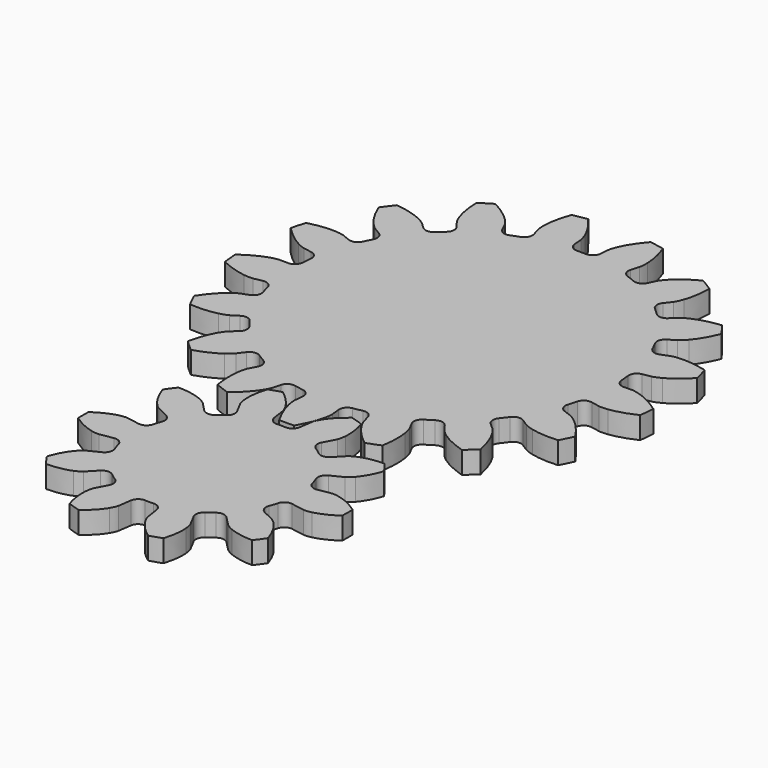
from build123d import *

# Parameters (mm, degrees)
PAD_DEPTH               = 5
PAD001_DEPTH            = 5
BODY001_PLACEMENT_ANGLE = 15.9


with BuildPart() as obj1:
    # InvoluteGear → Pad (new body)
    with BuildSketch(Plane.XY):
        with BuildLine():
            Line((20.236579, -3.515094), (23.223279, -4.029475))
            add(Edge.make_bspline(
                [(23.223279, -4.029475), (23.42369, -4.04779), (24.024695, -4.070874), (25.040076, -3.836996)],
                knots=[0, 0, 0, 0, 1, 1, 1, 1], degree=3))
            add(Edge.make_bspline(
                [(25.040076, -3.836996), (26.245626, -3.550442), (27.953672, -2.902976), (29.971864, -1.46522)],
                knots=[0, 0, 0, 0, 1, 1, 1, 1], degree=3))
            ThreePointArc((29.971864, -1.46522), (30.007666, 0), (29.971864, 1.46522))
            add(Edge.make_bspline(
                [(29.971864, 1.46522), (27.953672, 2.902976), (26.245626, 3.550442), (25.040076, 3.836996)],
                knots=[0, 0, 0, 0, 1, 1, 1, 1], degree=3))
            add(Edge.make_bspline(
                [(25.040076, 3.836996), (24.024695, 4.070874), (23.42369, 4.04779), (23.223279, 4.029475)],
                knots=[0, 0, 0, 0, 1, 1, 1, 1], degree=3))
            Line((23.223279, 4.029475), (20.236579, 3.515094))
            ThreePointArc((20.236579, 3.515094), (18.910165, 3.779849), (18.107004, 4.86815))
            ThreePointArc((18.107004, 4.86815), (17.83231, 5.794069), (17.510301, 6.704614))
            ThreePointArc((17.510301, 6.704614), (17.520385, 8.057154), (18.437856, 9.050992))
            Line((18.437856, 9.050992), (21.156493, 10.390387))
            add(Edge.make_bspline(
                [(21.156493, 10.390387), (21.329394, 10.493369), (21.829186, 10.827955), (22.513177, 11.613993)],
                knots=[0, 0, 0, 0, 1, 1, 1, 1], degree=3))
            add(Edge.make_bspline(
                [(22.513177, 11.613993), (23.320055, 12.554424), (24.321322, 14.082199), (25.108982, 16.431632)],
                knots=[0, 0, 0, 0, 1, 1, 1, 1], degree=3))
            ThreePointArc((25.108982, 16.431632), (24.276712, 17.638064), (23.386513, 18.802407))
            add(Edge.make_bspline(
                [(23.386513, 18.802407), (20.908669, 18.779313), (19.14626, 18.29916), (18.002518, 17.822382)],
                knots=[0, 0, 0, 0, 1, 1, 1, 1], degree=3))
            add(Edge.make_bspline(
                [(18.002518, 17.822382), (17.043587, 17.414767), (16.570932, 17.04283), (16.419561, 16.910215)],
                knots=[0, 0, 0, 0, 1, 1, 1, 1], degree=3))
            Line((16.419561, 16.910215), (14.305616, 14.738533))
            ThreePointArc((14.305616, 14.738533), (13.076906, 14.173078), (11.787447, 14.581447))
            ThreePointArc((11.787447, 14.581447), (11.020973, 15.169069), (10.225258, 15.716443))
            ThreePointArc((10.225258, 15.716443), (9.438412, 16.816598), (9.596499, 18.159906))
            Line((9.596499, 18.159906), (11.008647, 20.841474))
            add(Edge.make_bspline(
                [(11.008647, 20.841474), (11.087995, 21.026417), (11.29567, 21.590873), (11.387009, 22.628831)],
                knots=[0, 0, 0, 0, 1, 1, 1, 1], degree=3))
            add(Edge.make_bspline(
                [(11.387009, 22.628831), (11.487016, 23.863927), (11.399054, 25.688453), (10.655322, 28.052159)],
                knots=[0, 0, 0, 0, 1, 1, 1, 1], degree=3))
            ThreePointArc((10.655322, 28.052159), (9.272879, 28.538987), (7.868308, 28.957714))
            add(Edge.make_bspline(
                [(7.868308, 28.957714), (5.877265, 27.482591), (4.733673, 26.058221), (4.08861, 25.000225)],
                knots=[0, 0, 0, 0, 1, 1, 1, 1], degree=3))
            add(Edge.make_bspline(
                [(4.08861, 25.000225), (3.552408, 24.106812), (3.388641, 23.528089), (3.344129, 23.331827)],
                knots=[0, 0, 0, 0, 1, 1, 1, 1], degree=3))
            Line((3.344129, 23.331827), (2.910394, 20.332354))
            ThreePointArc((2.910394, 20.332354), (2.248713, 19.152673), (0.965486, 18.725126))
            ThreePointArc((0.965486, 18.725126), (0, 18.75), (-0.965486, 18.725126))
            ThreePointArc((-0.965486, 18.725126), (-2.248713, 19.152673), (-2.910394, 20.332354))
            Line((-2.910394, 20.332354), (-3.344129, 23.331827))
            add(Edge.make_bspline(
                [(-3.344129, 23.331827), (-3.388641, 23.528089), (-3.552408, 24.106812), (-4.08861, 25.000225)],
                knots=[0, 0, 0, 0, 1, 1, 1, 1], degree=3))
            add(Edge.make_bspline(
                [(-4.08861, 25.000225), (-4.733673, 26.058221), (-5.877265, 27.482591), (-7.868308, 28.957714)],
                knots=[0, 0, 0, 0, 1, 1, 1, 1], degree=3))
            ThreePointArc((-7.868308, 28.957714), (-9.272879, 28.538987), (-10.655322, 28.052159))
            add(Edge.make_bspline(
                [(-10.655322, 28.052159), (-11.399054, 25.688453), (-11.487016, 23.863927), (-11.387009, 22.628831)],
                knots=[0, 0, 0, 0, 1, 1, 1, 1], degree=3))
            add(Edge.make_bspline(
                [(-11.387009, 22.628831), (-11.29567, 21.590873), (-11.087995, 21.026417), (-11.008647, 20.841474)],
                knots=[0, 0, 0, 0, 1, 1, 1, 1], degree=3))
            Line((-11.008647, 20.841474), (-9.596499, 18.159906))
            ThreePointArc((-9.596499, 18.159906), (-9.438412, 16.816598), (-10.225258, 15.716443))
            ThreePointArc((-10.225258, 15.716443), (-11.020973, 15.169069), (-11.787447, 14.581447))
            ThreePointArc((-11.787447, 14.581447), (-13.076906, 14.173078), (-14.305616, 14.738533))
            Line((-14.305616, 14.738533), (-16.419561, 16.910215))
            add(Edge.make_bspline(
                [(-16.419561, 16.910215), (-16.570932, 17.04283), (-17.043587, 17.414767), (-18.002518, 17.822382)],
                knots=[0, 0, 0, 0, 1, 1, 1, 1], degree=3))
            add(Edge.make_bspline(
                [(-18.002518, 17.822382), (-19.14626, 18.29916), (-20.908669, 18.779313), (-23.386513, 18.802407)],
                knots=[0, 0, 0, 0, 1, 1, 1, 1], degree=3))
            ThreePointArc((-23.386513, 18.802407), (-24.276712, 17.638064), (-25.108982, 16.431632))
            add(Edge.make_bspline(
                [(-25.108982, 16.431632), (-24.321322, 14.082199), (-23.320055, 12.554424), (-22.513177, 11.613993)],
                knots=[0, 0, 0, 0, 1, 1, 1, 1], degree=3))
            add(Edge.make_bspline(
                [(-22.513177, 11.613993), (-21.829186, 10.827955), (-21.329394, 10.493369), (-21.156493, 10.390387)],
                knots=[0, 0, 0, 0, 1, 1, 1, 1], degree=3))
            Line((-21.156493, 10.390387), (-18.437856, 9.050992))
            ThreePointArc((-18.437856, 9.050992), (-17.520385, 8.057154), (-17.510301, 6.704614))
            ThreePointArc((-17.510301, 6.704614), (-17.83231, 5.794069), (-18.107004, 4.86815))
            ThreePointArc((-18.107004, 4.86815), (-18.910165, 3.779849), (-20.236579, 3.515094))
            Line((-20.236579, 3.515094), (-23.223279, 4.029475))
            add(Edge.make_bspline(
                [(-23.223279, 4.029475), (-23.42369, 4.04779), (-24.024695, 4.070874), (-25.040076, 3.836996)],
                knots=[0, 0, 0, 0, 1, 1, 1, 1], degree=3))
            add(Edge.make_bspline(
                [(-25.040076, 3.836996), (-26.245626, 3.550442), (-27.953672, 2.902976), (-29.971864, 1.46522)],
                knots=[0, 0, 0, 0, 1, 1, 1, 1], degree=3))
            ThreePointArc((-29.971864, 1.46522), (-30.007666, 0), (-29.971864, -1.46522))
            add(Edge.make_bspline(
                [(-29.971864, -1.46522), (-27.953672, -2.902976), (-26.245626, -3.550442), (-25.040076, -3.836996)],
                knots=[0, 0, 0, 0, 1, 1, 1, 1], degree=3))
            add(Edge.make_bspline(
                [(-25.040076, -3.836996), (-24.024695, -4.070874), (-23.42369, -4.04779), (-23.223279, -4.029475)],
                knots=[0, 0, 0, 0, 1, 1, 1, 1], degree=3))
            Line((-23.223279, -4.029475), (-20.236579, -3.515094))
            ThreePointArc((-20.236579, -3.515094), (-18.910165, -3.779849), (-18.107004, -4.86815))
            ThreePointArc((-18.107004, -4.86815), (-17.83231, -5.794069), (-17.510301, -6.704614))
            ThreePointArc((-17.510301, -6.704614), (-17.520385, -8.057154), (-18.437856, -9.050992))
            Line((-18.437856, -9.050992), (-21.156493, -10.390387))
            add(Edge.make_bspline(
                [(-21.156493, -10.390387), (-21.329394, -10.493369), (-21.829186, -10.827955), (-22.513177, -11.613993)],
                knots=[0, 0, 0, 0, 1, 1, 1, 1], degree=3))
            add(Edge.make_bspline(
                [(-22.513177, -11.613993), (-23.320055, -12.554424), (-24.321322, -14.082199), (-25.108982, -16.431632)],
                knots=[0, 0, 0, 0, 1, 1, 1, 1], degree=3))
            ThreePointArc((-25.108982, -16.431632), (-24.276712, -17.638064), (-23.386513, -18.802407))
            add(Edge.make_bspline(
                [(-23.386513, -18.802407), (-20.908669, -18.779313), (-19.14626, -18.29916), (-18.002518, -17.822382)],
                knots=[0, 0, 0, 0, 1, 1, 1, 1], degree=3))
            add(Edge.make_bspline(
                [(-18.002518, -17.822382), (-17.043587, -17.414767), (-16.570932, -17.04283), (-16.419561, -16.910215)],
                knots=[0, 0, 0, 0, 1, 1, 1, 1], degree=3))
            Line((-16.419561, -16.910215), (-14.305616, -14.738533))
            ThreePointArc((-14.305616, -14.738533), (-13.076906, -14.173078), (-11.787447, -14.581447))
            ThreePointArc((-11.787447, -14.581447), (-11.020973, -15.169069), (-10.225258, -15.716443))
            ThreePointArc((-10.225258, -15.716443), (-9.438412, -16.816598), (-9.596499, -18.159906))
            Line((-9.596499, -18.159906), (-11.008647, -20.841474))
            add(Edge.make_bspline(
                [(-11.008647, -20.841474), (-11.087995, -21.026417), (-11.29567, -21.590873), (-11.387009, -22.628831)],
                knots=[0, 0, 0, 0, 1, 1, 1, 1], degree=3))
            add(Edge.make_bspline(
                [(-11.387009, -22.628831), (-11.487016, -23.863927), (-11.399054, -25.688453), (-10.655322, -28.052159)],
                knots=[0, 0, 0, 0, 1, 1, 1, 1], degree=3))
            ThreePointArc((-10.655322, -28.052159), (-9.272879, -28.538987), (-7.868308, -28.957714))
            add(Edge.make_bspline(
                [(-7.868308, -28.957714), (-5.877265, -27.482591), (-4.733673, -26.058221), (-4.08861, -25.000225)],
                knots=[0, 0, 0, 0, 1, 1, 1, 1], degree=3))
            add(Edge.make_bspline(
                [(-4.08861, -25.000225), (-3.552408, -24.106812), (-3.388641, -23.528089), (-3.344129, -23.331827)],
                knots=[0, 0, 0, 0, 1, 1, 1, 1], degree=3))
            Line((-3.344129, -23.331827), (-2.910394, -20.332354))
            ThreePointArc((-2.910394, -20.332354), (-2.248713, -19.152673), (-0.965486, -18.725126))
            ThreePointArc((-0.965486, -18.725126), (0, -18.75), (0.965486, -18.725126))
            ThreePointArc((0.965486, -18.725126), (2.248713, -19.152673), (2.910394, -20.332354))
            Line((2.910394, -20.332354), (3.344129, -23.331827))
            add(Edge.make_bspline(
                [(3.344129, -23.331827), (3.388641, -23.528089), (3.552408, -24.106812), (4.08861, -25.000225)],
                knots=[0, 0, 0, 0, 1, 1, 1, 1], degree=3))
            add(Edge.make_bspline(
                [(4.08861, -25.000225), (4.733673, -26.058221), (5.877265, -27.482591), (7.868308, -28.957714)],
                knots=[0, 0, 0, 0, 1, 1, 1, 1], degree=3))
            ThreePointArc((7.868308, -28.957714), (9.272879, -28.538987), (10.655322, -28.052159))
            add(Edge.make_bspline(
                [(10.655322, -28.052159), (11.399054, -25.688453), (11.487016, -23.863927), (11.387009, -22.628831)],
                knots=[0, 0, 0, 0, 1, 1, 1, 1], degree=3))
            add(Edge.make_bspline(
                [(11.387009, -22.628831), (11.29567, -21.590873), (11.087995, -21.026417), (11.008647, -20.841474)],
                knots=[0, 0, 0, 0, 1, 1, 1, 1], degree=3))
            Line((11.008647, -20.841474), (9.596499, -18.159906))
            ThreePointArc((9.596499, -18.159906), (9.438412, -16.816598), (10.225258, -15.716443))
            ThreePointArc((10.225258, -15.716443), (11.020973, -15.169069), (11.787447, -14.581447))
            ThreePointArc((11.787447, -14.581447), (13.076906, -14.173078), (14.305616, -14.738533))
            Line((14.305616, -14.738533), (16.419561, -16.910215))
            add(Edge.make_bspline(
                [(16.419561, -16.910215), (16.570932, -17.04283), (17.043587, -17.414767), (18.002518, -17.822382)],
                knots=[0, 0, 0, 0, 1, 1, 1, 1], degree=3))
            add(Edge.make_bspline(
                [(18.002518, -17.822382), (19.14626, -18.29916), (20.908669, -18.779313), (23.386513, -18.802407)],
                knots=[0, 0, 0, 0, 1, 1, 1, 1], degree=3))
            ThreePointArc((23.386513, -18.802407), (24.276712, -17.638064), (25.108982, -16.431632))
            add(Edge.make_bspline(
                [(25.108982, -16.431632), (24.321322, -14.082199), (23.320055, -12.554424), (22.513177, -11.613993)],
                knots=[0, 0, 0, 0, 1, 1, 1, 1], degree=3))
            add(Edge.make_bspline(
                [(22.513177, -11.613993), (21.829186, -10.827955), (21.329394, -10.493369), (21.156493, -10.390387)],
                knots=[0, 0, 0, 0, 1, 1, 1, 1], degree=3))
            Line((21.156493, -10.390387), (18.437856, -9.050992))
            ThreePointArc((18.437856, -9.050992), (17.520385, -8.057154), (17.510301, -6.704614))
            ThreePointArc((17.510301, -6.704614), (17.83231, -5.794069), (18.107004, -4.86815))
            ThreePointArc((18.107004, -4.86815), (18.910165, -3.779849), (20.236579, -3.515094))
        make_face()
    extrude(amount=PAD_DEPTH)


with BuildPart() as obj2:
    # InvoluteGear001 → Pad001 (new body)
    with BuildSketch(Plane.XY):
        with BuildLine():
            Line((37.859852, -4.078184), (39.792789, -4.282569))
            add(Edge.make_bspline(
                [(39.792789, -4.282569), (40.017474, -4.292045), (40.693294, -4.291535), (41.822773, -4.042595)],
                knots=[0, 0, 0, 0, 1, 1, 1, 1], degree=3))
            add(Edge.make_bspline(
                [(41.822773, -4.042595), (43.172148, -3.739868), (45.108405, -3.085293), (47.475984, -1.682561)],
                knots=[0, 0, 0, 0, 1, 1, 1, 1], degree=3))
            ThreePointArc((47.475984, -1.682561), (47.505794, 0), (47.475984, 1.682561))
            add(Edge.make_bspline(
                [(47.475984, 1.682561), (45.108405, 3.085293), (43.172148, 3.739868), (41.822773, 4.042595)],
                knots=[0, 0, 0, 0, 1, 1, 1, 1], degree=3))
            add(Edge.make_bspline(
                [(41.822773, 4.042595), (40.693294, 4.291535), (40.017474, 4.292045), (39.792789, 4.282569)],
                knots=[0, 0, 0, 0, 1, 1, 1, 1], degree=3))
            Line((39.792789, 4.282569), (37.859852, 4.078184))
            ThreePointArc((37.859852, 4.078184), (36.519965, 4.453061), (35.807295, 5.648023))
            ThreePointArc((35.807295, 5.648023), (35.632775, 6.66092), (35.429609, 7.668463))
            ThreePointArc((35.429609, 7.668463), (35.662484, 9.040177), (36.776471, 9.873763))
            Line((36.776471, 9.873763), (38.652714, 10.381437))
            add(Edge.make_bspline(
                [(38.652714, 10.381437), (38.865649, 10.453766), (39.495647, 10.698376), (40.458928, 11.33852)],
                knots=[0, 0, 0, 0, 1, 1, 1, 1], degree=3))
            add(Edge.make_bspline(
                [(40.458928, 11.33852), (41.607826, 12.108255), (43.176871, 13.418085), (44.877848, 15.581362)],
                knots=[0, 0, 0, 0, 1, 1, 1, 1], degree=3))
            ThreePointArc((44.877848, 15.581362), (44.297833, 17.161072), (43.662226, 18.719245))
            add(Edge.make_bspline(
                [(43.662226, 18.719245), (40.947798, 19.171985), (38.905833, 19.082902), (37.53822, 18.877736)],
                knots=[0, 0, 0, 0, 1, 1, 1, 1], degree=3))
            add(Edge.make_bspline(
                [(37.53822, 18.877736), (36.395085, 18.70185), (35.764718, 18.458192), (35.558629, 18.36819)],
                knots=[0, 0, 0, 0, 1, 1, 1, 1], degree=3))
            Line((35.558629, 18.36819), (33.830051, 17.47935))
            ThreePointArc((33.830051, 17.47935), (32.445222, 17.344889), (31.349007, 18.201711))
            ThreePointArc((31.349007, 18.201711), (30.820371, 19.083166), (30.266958, 19.949279))
            ThreePointArc((30.266958, 19.949279), (29.988588, 21.312489), (30.726223, 22.492203))
            Line((30.726223, 22.492203), (32.292374, 23.643372))
            add(Edge.make_bspline(
                [(32.292374, 23.643372), (32.464803, 23.787738), (32.963895, 24.243412), (33.630881, 25.188306)],
                knots=[0, 0, 0, 0, 1, 1, 1, 1], degree=3))
            add(Edge.make_bspline(
                [(33.630881, 25.188306), (34.424136, 26.321092), (35.414062, 28.109277), (36.21871, 30.740936)],
                knots=[0, 0, 0, 0, 1, 1, 1, 1], degree=3))
            ThreePointArc((36.21871, 30.740936), (35.107205, 32.004446), (33.951642, 33.227791))
            add(Edge.make_bspline(
                [(33.951642, 33.227791), (31.256965, 32.669395), (29.38507, 31.848684), (28.183923, 31.163333)],
                knots=[0, 0, 0, 0, 1, 1, 1, 1], degree=3))
            add(Edge.make_bspline(
                [(28.183923, 31.163333), (27.181519, 30.586377), (26.681738, 30.131458), (26.522078, 29.973086)],
                knots=[0, 0, 0, 0, 1, 1, 1, 1], degree=3))
            Line((26.522078, 29.973086), (25.231313, 28.519832))
            ThreePointArc((25.231313, 28.519832), (23.988572, 27.894193), (22.656862, 28.297157))
            ThreePointArc((22.656862, 28.297157), (21.845506, 28.928124), (21.016587, 29.535835))
            ThreePointArc((21.016587, 29.535835), (20.264566, 30.706432), (20.526229, 32.072947))
            Line((20.526229, 32.072947), (21.570771, 33.712139))
            add(Edge.make_bspline(
                [(21.570771, 33.712139), (21.679405, 33.909045), (21.980186, 34.514241), (22.260797, 35.636271)],
                knots=[0, 0, 0, 0, 1, 1, 1, 1], degree=3))
            add(Edge.make_bspline(
                [(22.260797, 35.636271), (22.591275, 36.97912), (22.868387, 39.004155), (22.668034, 41.748776)],
                knots=[0, 0, 0, 0, 1, 1, 1, 1], degree=3))
            ThreePointArc((22.668034, 41.748776), (21.175154, 42.525443), (19.6557, 43.24874))
            add(Edge.make_bspline(
                [(19.6557, 43.24874), (17.344705, 41.754622), (15.89569, 40.313125), (15.023231, 39.24015)],
                knots=[0, 0, 0, 0, 1, 1, 1, 1], degree=3))
            add(Edge.make_bspline(
                [(15.023231, 39.24015), (14.296938, 38.340044), (13.995242, 37.735303), (13.903574, 37.52995)],
                knots=[0, 0, 0, 0, 1, 1, 1, 1], degree=3))
            Line((13.903574, 37.52995), (13.224947, 35.708553))
            ThreePointArc((13.224947, 35.708553), (12.292132, 34.676232), (10.904782, 34.570916))
            ThreePointArc((10.904782, 34.570916), (9.920283, 34.86618), (8.927809, 35.133413))
            ThreePointArc((8.927809, 35.133413), (7.803703, 35.9533), (7.554054, 37.322061))
            Line((7.554054, 37.322061), (7.935916, 39.227895))
            add(Edge.make_bspline(
                [(7.935916, 39.227895), (7.966083, 39.450747), (8.027931, 40.12373), (7.884269, 41.27136)],
                knots=[0, 0, 0, 0, 1, 1, 1, 1], degree=3))
            add(Edge.make_bspline(
                [(7.884269, 41.27136), (7.707338, 42.642912), (7.23421, 44.631305), (6.055915, 47.118213)],
                knots=[0, 0, 0, 0, 1, 1, 1, 1], degree=3))
            ThreePointArc((6.055915, 47.118213), (4.383282, 47.303142), (2.705148, 47.428707))
            add(Edge.make_bspline(
                [(2.705148, 47.428707), (1.089947, 45.200655), (0.259509, 43.333055), (-0.166431, 42.017368)],
                knots=[0, 0, 0, 0, 1, 1, 1, 1], degree=3))
            add(Edge.make_bspline(
                [(-0.166431, 42.017368), (-0.518524, 40.915676), (-0.581389, 40.242787), (-0.592685, 40.018186)],
                knots=[0, 0, 0, 0, 1, 1, 1, 1], degree=3))
            Line((-0.592685, 40.018186), (-0.567521, 38.074636))
            ThreePointArc((-0.567521, 38.074636), (-1.064428, 36.775054), (-2.320049, 36.175681))
            ThreePointArc((-2.320049, 36.175681), (-3.344728, 36.095364), (-4.366718, 35.986029))
            ThreePointArc((-4.366718, 35.986029), (-5.711094, 36.344477), (-6.438338, 37.530625))
            Line((-6.438338, 37.530625), (-6.770729, 39.445706))
            add(Edge.make_bspline(
                [(-6.770729, 39.445706), (-6.823102, 39.664407), (-7.00854, 40.314288), (-7.557073, 41.332524)],
                knots=[0, 0, 0, 0, 1, 1, 1, 1], degree=3))
            add(Edge.make_bspline(
                [(-7.557073, 41.332524), (-8.217518, 42.547543), (-9.376987, 44.230751), (-11.37409, 46.124074)],
                knots=[0, 0, 0, 0, 1, 1, 1, 1], degree=3))
            ThreePointArc((-11.37409, 46.124074), (-13.000578, 45.692291), (-14.61075, 45.203165))
            add(Edge.make_bspline(
                [(-14.61075, 45.203165), (-15.312015, 42.54209), (-15.411721, 40.500616), (-15.333617, 39.119907)],
                knots=[0, 0, 0, 0, 1, 1, 1, 1], degree=3))
            add(Edge.make_bspline(
                [(-15.333617, 39.119907), (-15.263957, 37.965419), (-15.079501, 37.315259), (-15.008899, 37.101745)],
                knots=[0, 0, 0, 0, 1, 1, 1, 1], degree=3))
            Line((-15.008899, 37.101745), (-14.283343, 35.298529))
            ThreePointArc((-14.283343, 35.298529), (-14.277231, 33.907201), (-15.231544, 32.894719))
            ThreePointArc((-15.231544, 32.894719), (-16.158015, 32.449669), (-17.071497, 31.978532))
            ThreePointArc((-17.071497, 31.978532), (-18.454576, 31.82713), (-19.561197, 32.670469))
            Line((-19.561197, 32.670469), (-20.562949, 34.336156))
            add(Edge.make_bspline(
                [(-20.562949, 34.336156), (-20.69079, 34.521169), (-21.09847, 35.060177), (-21.977791, 35.811501)],
                knots=[0, 0, 0, 0, 1, 1, 1, 1], degree=3))
            add(Edge.make_bspline(
                [(-21.977791, 35.811501), (-23.032553, 36.705892), (-24.72177, 37.856589), (-27.26796, 38.900623)],
                knots=[0, 0, 0, 0, 1, 1, 1, 1], degree=3))
            ThreePointArc((-27.26796, 38.900623), (-28.628637, 37.910442), (-29.953385, 36.872684))
            add(Edge.make_bspline(
                [(-29.953385, 36.872684), (-29.646004, 34.13798), (-29.001511, 32.198344), (-28.429912, 30.939085)],
                knots=[0, 0, 0, 0, 1, 1, 1, 1], degree=3))
            add(Edge.make_bspline(
                [(-28.429912, 30.939085), (-27.947907, 29.887722), (-27.541042, 29.348099), (-27.398077, 29.174507)],
                knots=[0, 0, 0, 0, 1, 1, 1, 1], degree=3))
            Line((-27.398077, 29.174507), (-26.07012, 27.755159))
            ThreePointArc((-26.07012, 27.755159), (-25.561815, 26.459992), (-26.085935, 25.171144))
            ThreePointArc((-26.085935, 25.171144), (-26.789073, 24.421467), (-27.470675, 23.652157))
            ThreePointArc((-27.470675, 23.652157), (-28.705665, 23.011353), (-30.042208, 23.397986))
            Line((-30.042208, 23.397986), (-31.578029, 24.589318))
            add(Edge.make_bspline(
                [(-31.578029, 24.589318), (-31.764072, 24.715656), (-32.338934, 25.070995), (-33.430286, 25.453936)],
                knots=[0, 0, 0, 0, 1, 1, 1, 1], degree=3))
            add(Edge.make_bspline(
                [(-33.430286, 25.453936), (-34.736913, 25.906908), (-36.727741, 26.369684), (-39.479141, 26.423427)],
                knots=[0, 0, 0, 0, 1, 1, 1, 1], degree=3))
            ThreePointArc((-39.479141, 26.423427), (-40.39024, 25.008578), (-41.25065, 23.562343))
            add(Edge.make_bspline(
                [(-41.25065, 23.562343), (-39.976136, 21.123346), (-38.674487, 19.547507), (-37.68659, 18.579769)],
                knots=[0, 0, 0, 0, 1, 1, 1, 1], degree=3))
            add(Edge.make_bspline(
                [(-37.68659, 18.579769), (-36.857338, 17.773522), (-36.283013, 17.417315), (-36.086994, 17.30709)],
                knots=[0, 0, 0, 0, 1, 1, 1, 1], degree=3))
            Line((-36.086994, 17.30709), (-34.335983, 16.463302))
            ThreePointArc((-34.335983, 16.463302), (-33.394135, 15.439215), (-33.417276, 14.048066))
            ThreePointArc((-33.417276, 14.048066), (-33.802118, 13.09501), (-34.159786, 12.131427))
            ThreePointArc((-34.159786, 12.131427), (-35.079895, 11.087765), (-36.465852, 10.965475))
            Line((-36.465852, 10.965475), (-38.328322, 11.521556))
            add(Edge.make_bspline(
                [(-38.328322, 11.521556), (-38.54744, 11.572157), (-39.211846, 11.695836), (-40.367836, 11.658676)],
                knots=[0, 0, 0, 0, 1, 1, 1, 1], degree=3))
            add(Edge.make_bspline(
                [(-40.367836, 11.658676), (-41.749861, 11.609051), (-43.773427, 11.321408), (-46.358446, 10.377601)],
                knots=[0, 0, 0, 0, 1, 1, 1, 1], degree=3))
            ThreePointArc((-46.358446, 10.377601), (-46.696917, 8.729167), (-46.976785, 7.069777))
            add(Edge.make_bspline(
                [(-46.976785, 7.069777), (-44.90727, 5.255888), (-43.12426, 4.256671), (-41.853485, 3.711152)],
                knots=[0, 0, 0, 0, 1, 1, 1, 1], degree=3))
            add(Edge.make_bspline(
                [(-41.853485, 3.711152), (-40.788981, 3.25891), (-40.124762, 3.134227), (-39.902162, 3.102256)],
                knots=[0, 0, 0, 0, 1, 1, 1, 1], degree=3))
            Line((-39.902162, 3.102256), (-37.964581, 2.947984))
            ThreePointArc((-37.964581, 2.947984), (-36.716391, 2.333286), (-36.235429, 1.027719))
            ThreePointArc((-36.235429, 1.027719), (-36.25, 0), (-36.235429, -1.027719))
            ThreePointArc((-36.235429, -1.027719), (-36.716391, -2.333286), (-37.964581, -2.947984))
            Line((-37.964581, -2.947984), (-39.902162, -3.102256))
            add(Edge.make_bspline(
                [(-39.902162, -3.102256), (-40.124762, -3.134227), (-40.788981, -3.25891), (-41.853485, -3.711152)],
                knots=[0, 0, 0, 0, 1, 1, 1, 1], degree=3))
            add(Edge.make_bspline(
                [(-41.853485, -3.711152), (-43.12426, -4.256671), (-44.90727, -5.255888), (-46.976785, -7.069777)],
                knots=[0, 0, 0, 0, 1, 1, 1, 1], degree=3))
            ThreePointArc((-46.976785, -7.069777), (-46.696917, -8.729167), (-46.358446, -10.377601))
            add(Edge.make_bspline(
                [(-46.358446, -10.377601), (-43.773427, -11.321408), (-41.749861, -11.609051), (-40.367836, -11.658676)],
                knots=[0, 0, 0, 0, 1, 1, 1, 1], degree=3))
            add(Edge.make_bspline(
                [(-40.367836, -11.658676), (-39.211846, -11.695836), (-38.54744, -11.572157), (-38.328322, -11.521556)],
                knots=[0, 0, 0, 0, 1, 1, 1, 1], degree=3))
            Line((-38.328322, -11.521556), (-36.465852, -10.965475))
            ThreePointArc((-36.465852, -10.965475), (-35.079895, -11.087765), (-34.159786, -12.131427))
            ThreePointArc((-34.159786, -12.131427), (-33.802118, -13.09501), (-33.417276, -14.048066))
            ThreePointArc((-33.417276, -14.048066), (-33.394135, -15.439215), (-34.335983, -16.463302))
            Line((-34.335983, -16.463302), (-36.086994, -17.30709))
            add(Edge.make_bspline(
                [(-36.086994, -17.30709), (-36.283013, -17.417315), (-36.857338, -17.773522), (-37.68659, -18.579769)],
                knots=[0, 0, 0, 0, 1, 1, 1, 1], degree=3))
            add(Edge.make_bspline(
                [(-37.68659, -18.579769), (-38.674487, -19.547507), (-39.976136, -21.123346), (-41.25065, -23.562343)],
                knots=[0, 0, 0, 0, 1, 1, 1, 1], degree=3))
            ThreePointArc((-41.25065, -23.562343), (-40.39024, -25.008578), (-39.479141, -26.423427))
            add(Edge.make_bspline(
                [(-39.479141, -26.423427), (-36.727741, -26.369684), (-34.736913, -25.906908), (-33.430286, -25.453936)],
                knots=[0, 0, 0, 0, 1, 1, 1, 1], degree=3))
            add(Edge.make_bspline(
                [(-33.430286, -25.453936), (-32.338934, -25.070995), (-31.764072, -24.715656), (-31.578029, -24.589318)],
                knots=[0, 0, 0, 0, 1, 1, 1, 1], degree=3))
            Line((-31.578029, -24.589318), (-30.042208, -23.397986))
            ThreePointArc((-30.042208, -23.397986), (-28.705665, -23.011353), (-27.470675, -23.652157))
            ThreePointArc((-27.470675, -23.652157), (-26.789073, -24.421467), (-26.085935, -25.171144))
            ThreePointArc((-26.085935, -25.171144), (-25.561815, -26.459992), (-26.07012, -27.755159))
            Line((-26.07012, -27.755159), (-27.398077, -29.174507))
            add(Edge.make_bspline(
                [(-27.398077, -29.174507), (-27.541042, -29.348099), (-27.947907, -29.887722), (-28.429912, -30.939085)],
                knots=[0, 0, 0, 0, 1, 1, 1, 1], degree=3))
            add(Edge.make_bspline(
                [(-28.429912, -30.939085), (-29.001511, -32.198344), (-29.646004, -34.13798), (-29.953385, -36.872684)],
                knots=[0, 0, 0, 0, 1, 1, 1, 1], degree=3))
            ThreePointArc((-29.953385, -36.872684), (-28.628637, -37.910442), (-27.26796, -38.900623))
            add(Edge.make_bspline(
                [(-27.26796, -38.900623), (-24.72177, -37.856589), (-23.032553, -36.705892), (-21.977791, -35.811501)],
                knots=[0, 0, 0, 0, 1, 1, 1, 1], degree=3))
            add(Edge.make_bspline(
                [(-21.977791, -35.811501), (-21.09847, -35.060177), (-20.69079, -34.521169), (-20.562949, -34.336156)],
                knots=[0, 0, 0, 0, 1, 1, 1, 1], degree=3))
            Line((-20.562949, -34.336156), (-19.561197, -32.670469))
            ThreePointArc((-19.561197, -32.670469), (-18.454576, -31.82713), (-17.071497, -31.978532))
            ThreePointArc((-17.071497, -31.978532), (-16.158015, -32.449669), (-15.231544, -32.894719))
            ThreePointArc((-15.231544, -32.894719), (-14.277231, -33.907201), (-14.283343, -35.298529))
            Line((-14.283343, -35.298529), (-15.008899, -37.101745))
            add(Edge.make_bspline(
                [(-15.008899, -37.101745), (-15.079501, -37.315259), (-15.263957, -37.965419), (-15.333617, -39.119907)],
                knots=[0, 0, 0, 0, 1, 1, 1, 1], degree=3))
            add(Edge.make_bspline(
                [(-15.333617, -39.119907), (-15.411721, -40.500616), (-15.312015, -42.54209), (-14.61075, -45.203165)],
                knots=[0, 0, 0, 0, 1, 1, 1, 1], degree=3))
            ThreePointArc((-14.61075, -45.203165), (-13.000578, -45.692291), (-11.37409, -46.124074))
            add(Edge.make_bspline(
                [(-11.37409, -46.124074), (-9.376987, -44.230751), (-8.217518, -42.547543), (-7.557073, -41.332524)],
                knots=[0, 0, 0, 0, 1, 1, 1, 1], degree=3))
            add(Edge.make_bspline(
                [(-7.557073, -41.332524), (-7.00854, -40.314288), (-6.823102, -39.664407), (-6.770729, -39.445706)],
                knots=[0, 0, 0, 0, 1, 1, 1, 1], degree=3))
            Line((-6.770729, -39.445706), (-6.438338, -37.530625))
            ThreePointArc((-6.438338, -37.530625), (-5.711094, -36.344477), (-4.366718, -35.986029))
            ThreePointArc((-4.366718, -35.986029), (-3.344728, -36.095364), (-2.320049, -36.175681))
            ThreePointArc((-2.320049, -36.175681), (-1.064428, -36.775054), (-0.567521, -38.074636))
            Line((-0.567521, -38.074636), (-0.592685, -40.018186))
            add(Edge.make_bspline(
                [(-0.592685, -40.018186), (-0.581389, -40.242787), (-0.518524, -40.915676), (-0.166431, -42.017368)],
                knots=[0, 0, 0, 0, 1, 1, 1, 1], degree=3))
            add(Edge.make_bspline(
                [(-0.166431, -42.017368), (0.259509, -43.333055), (1.089947, -45.200655), (2.705148, -47.428707)],
                knots=[0, 0, 0, 0, 1, 1, 1, 1], degree=3))
            ThreePointArc((2.705148, -47.428707), (4.383282, -47.303142), (6.055915, -47.118213))
            add(Edge.make_bspline(
                [(6.055915, -47.118213), (7.23421, -44.631305), (7.707338, -42.642912), (7.884269, -41.27136)],
                knots=[0, 0, 0, 0, 1, 1, 1, 1], degree=3))
            add(Edge.make_bspline(
                [(7.884269, -41.27136), (8.027931, -40.12373), (7.966083, -39.450747), (7.935916, -39.227895)],
                knots=[0, 0, 0, 0, 1, 1, 1, 1], degree=3))
            Line((7.935916, -39.227895), (7.554054, -37.322061))
            ThreePointArc((7.554054, -37.322061), (7.803703, -35.9533), (8.927809, -35.133413))
            ThreePointArc((8.927809, -35.133413), (9.920283, -34.86618), (10.904782, -34.570916))
            ThreePointArc((10.904782, -34.570916), (12.292132, -34.676232), (13.224947, -35.708553))
            Line((13.224947, -35.708553), (13.903574, -37.52995))
            add(Edge.make_bspline(
                [(13.903574, -37.52995), (13.995242, -37.735303), (14.296938, -38.340044), (15.023231, -39.24015)],
                knots=[0, 0, 0, 0, 1, 1, 1, 1], degree=3))
            add(Edge.make_bspline(
                [(15.023231, -39.24015), (15.89569, -40.313125), (17.344705, -41.754622), (19.6557, -43.24874)],
                knots=[0, 0, 0, 0, 1, 1, 1, 1], degree=3))
            ThreePointArc((19.6557, -43.24874), (21.175154, -42.525443), (22.668034, -41.748776))
            add(Edge.make_bspline(
                [(22.668034, -41.748776), (22.868387, -39.004155), (22.591275, -36.97912), (22.260797, -35.636271)],
                knots=[0, 0, 0, 0, 1, 1, 1, 1], degree=3))
            add(Edge.make_bspline(
                [(22.260797, -35.636271), (21.980186, -34.514241), (21.679405, -33.909045), (21.570771, -33.712139)],
                knots=[0, 0, 0, 0, 1, 1, 1, 1], degree=3))
            Line((21.570771, -33.712139), (20.526229, -32.072947))
            ThreePointArc((20.526229, -32.072947), (20.264566, -30.706432), (21.016587, -29.535835))
            ThreePointArc((21.016587, -29.535835), (21.845506, -28.928124), (22.656862, -28.297157))
            ThreePointArc((22.656862, -28.297157), (23.988572, -27.894193), (25.231313, -28.519832))
            Line((25.231313, -28.519832), (26.522078, -29.973086))
            add(Edge.make_bspline(
                [(26.522078, -29.973086), (26.681738, -30.131458), (27.181519, -30.586377), (28.183923, -31.163333)],
                knots=[0, 0, 0, 0, 1, 1, 1, 1], degree=3))
            add(Edge.make_bspline(
                [(28.183923, -31.163333), (29.38507, -31.848684), (31.256965, -32.669395), (33.951642, -33.227791)],
                knots=[0, 0, 0, 0, 1, 1, 1, 1], degree=3))
            ThreePointArc((33.951642, -33.227791), (35.107205, -32.004446), (36.21871, -30.740936))
            add(Edge.make_bspline(
                [(36.21871, -30.740936), (35.414062, -28.109277), (34.424136, -26.321092), (33.630881, -25.188306)],
                knots=[0, 0, 0, 0, 1, 1, 1, 1], degree=3))
            add(Edge.make_bspline(
                [(33.630881, -25.188306), (32.963895, -24.243412), (32.464803, -23.787738), (32.292374, -23.643372)],
                knots=[0, 0, 0, 0, 1, 1, 1, 1], degree=3))
            Line((32.292374, -23.643372), (30.726223, -22.492203))
            ThreePointArc((30.726223, -22.492203), (29.988588, -21.312489), (30.266958, -19.949279))
            ThreePointArc((30.266958, -19.949279), (30.820371, -19.083166), (31.349007, -18.201711))
            ThreePointArc((31.349007, -18.201711), (32.445222, -17.344889), (33.830051, -17.47935))
            Line((33.830051, -17.47935), (35.558629, -18.36819))
            add(Edge.make_bspline(
                [(35.558629, -18.36819), (35.764718, -18.458192), (36.395085, -18.70185), (37.53822, -18.877736)],
                knots=[0, 0, 0, 0, 1, 1, 1, 1], degree=3))
            add(Edge.make_bspline(
                [(37.53822, -18.877736), (38.905833, -19.082902), (40.947798, -19.171985), (43.662226, -18.719245)],
                knots=[0, 0, 0, 0, 1, 1, 1, 1], degree=3))
            ThreePointArc((43.662226, -18.719245), (44.297833, -17.161072), (44.877848, -15.581362))
            add(Edge.make_bspline(
                [(44.877848, -15.581362), (43.176871, -13.418085), (41.607826, -12.108255), (40.458928, -11.33852)],
                knots=[0, 0, 0, 0, 1, 1, 1, 1], degree=3))
            add(Edge.make_bspline(
                [(40.458928, -11.33852), (39.495647, -10.698376), (38.865649, -10.453766), (38.652714, -10.381437)],
                knots=[0, 0, 0, 0, 1, 1, 1, 1], degree=3))
            Line((38.652714, -10.381437), (36.776471, -9.873763))
            ThreePointArc((36.776471, -9.873763), (35.662484, -9.040177), (35.429609, -7.668463))
            ThreePointArc((35.429609, -7.668463), (35.632775, -6.66092), (35.807295, -5.648023))
            ThreePointArc((35.807295, -5.648023), (36.519965, -4.453061), (37.859852, -4.078184))
        make_face()
    extrude(amount=PAD001_DEPTH)


with BuildPart() as obj2_1:
    # Body001 placement: moved
    add(obj2.part.moved(Location((0, 67.67, 0))).rotate(Axis((0, 67.67, 0), (0, 0, 1)), BODY001_PLACEMENT_ANGLE))


solid = Compound([obj1.part, obj2_1.part])
